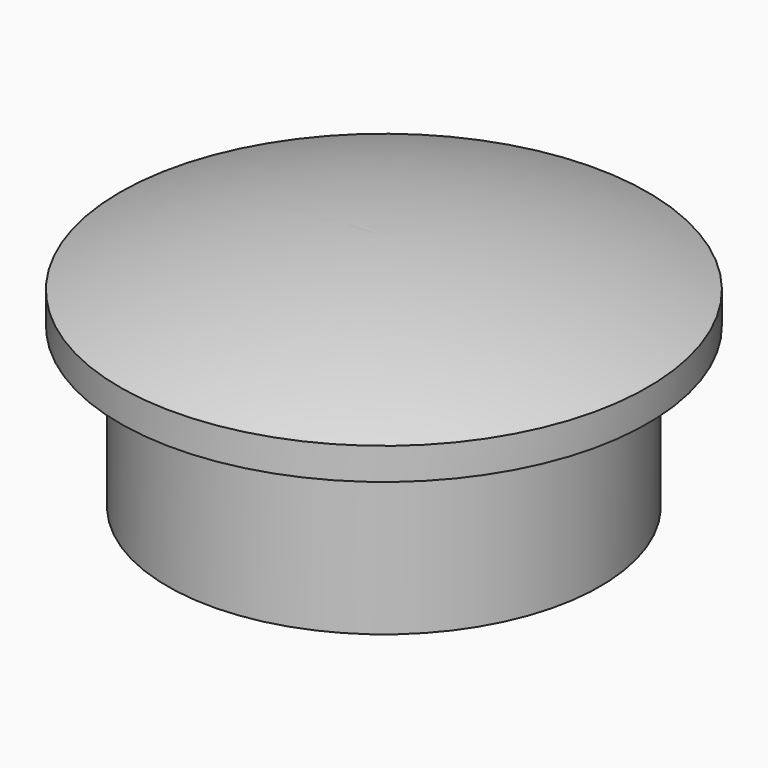
from build123d import *


with BuildPart() as f1:
    # F0 (on Front) → F1 (revolve)
    with BuildSketch(Plane.XZ):
        Polygon((-17.272, 0), (0, 0), (0, 15.24), (-21.082, 15.24), (-21.082, 12.7), (-17.272, 12.7), align=None)
        with BuildLine():
            Line((-21.082, 15.24), (0, 15.24))
            Line((0, 15.24), (0, 19.05))
            ThreePointArc((0, 19.05), (-10.711756, 18.089847), (-21.082, 15.24))
        make_face()
    revolve(axis=Axis((0, 0, 7.62), (0, 0, -1)))


solid = f1.part
